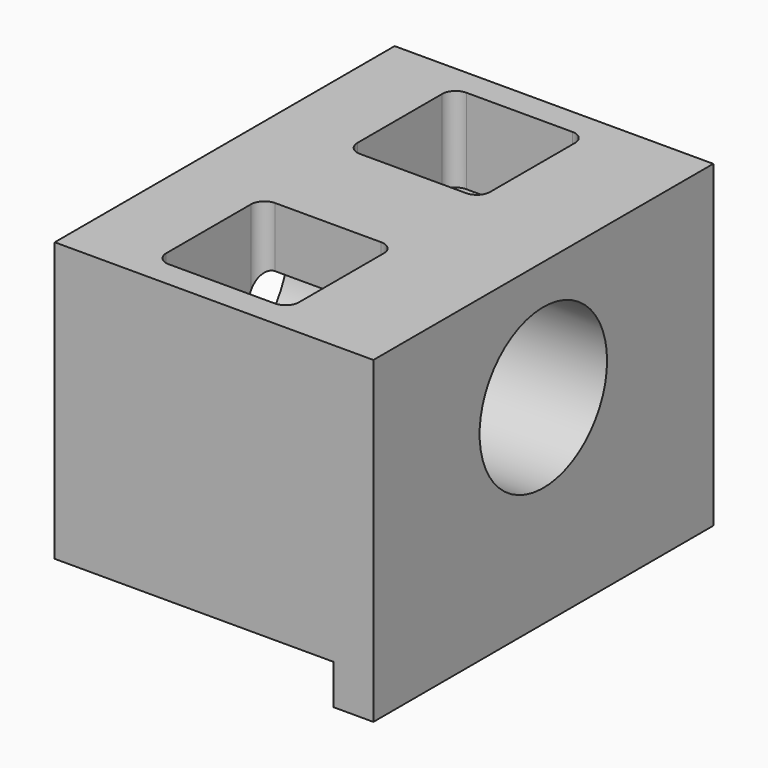
from build123d import *

# Parameters (mm, degrees)
F1_DEPTH = 50.8
F2_R     = 9.525
F4_DEPTH = 38.101
F3_R     = 4.826
F5_DEPTH = 38.101
F3_W     = 15.875
F3_H     = 15.875
F8_DEPTH = 10.16
F9_R     = 1.6002


with BuildPart() as f1:
    # F0 (on Front) → F1 (new body)
    with BuildSketch(Plane.XZ):
        Polygon((0, 33.3248), (0, 0), (33.3248, 0), (33.3248, -4.7752), (38.1, -4.7752), (38.1, 33.3248), align=None)
    extrude(amount=F1_DEPTH)

    # F2 (on face) → F4 (cut, through all)
    with BuildSketch(Plane.YZ.offset(38.1)):
        with Locations((-25.4, 19.05)):
            Circle(F2_R)
    extrude(amount=-F4_DEPTH, mode=Mode.SUBTRACT)

    # F3 (on face) → F5 (cut, through all)
    with BuildSketch(Plane.XY.offset(33.3248)):
        with Locations((17.4498, -9.525)):
            Circle(F3_R)
        with Locations((17.4498, -41.275)):
            Circle(F3_R)
    extrude(amount=-F5_DEPTH, mode=Mode.SUBTRACT)

    # F3 (on face) → F8 (cut)
    with BuildSketch(Plane.XY.offset(33.3248)):
        with Locations((17.4498, -11.1125)):
            Rectangle(F3_W, F3_H)
        with Locations((17.4498, -9.525)):
            Circle(F3_R, mode=Mode.SUBTRACT)
        with Locations((17.4498, -39.6875)):
            Rectangle(F3_W, F3_H)
        with Locations((17.4498, -41.275)):
            Circle(F3_R, mode=Mode.SUBTRACT)
    extrude(amount=-F8_DEPTH, mode=Mode.SUBTRACT)

    # F9
    f9_edges = [f1.edges().sort_by_distance(p)[0] for p in [
        (9.5123, -47.625, 28.2448),
        (9.5123, -31.75, 29.737158),
        (9.5123, -3.175, 28.2448),
        (9.5123, -19.05, 29.737158),
        (25.3873, -19.05, 29.737158),
        (25.3873, -47.625, 28.2448),
        (25.3873, -31.75, 29.737158),
        (25.3873, -3.175, 28.2448),
    ]]
    fillet(f9_edges, radius=F9_R)


solid = f1.part
